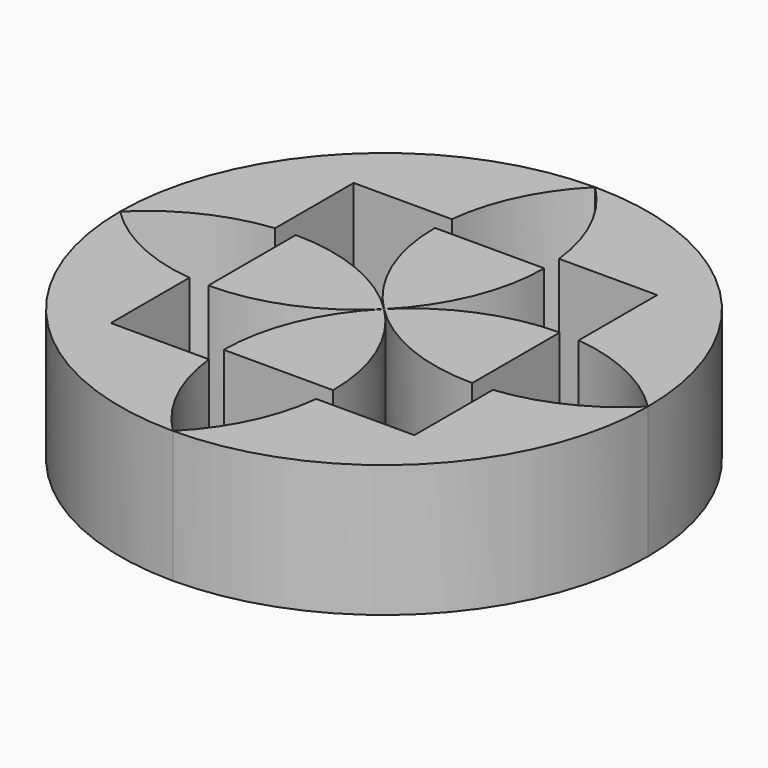
from build123d import *

# Parameters (mm, degrees)
F1_DEPTH = 25.4


with BuildPart() as f1:
    # F0 (on Top) → F1 (new body)
    with BuildSketch(Plane.XY):
        with BuildLine():
            ThreePointArc((-10.3183972205, 29.21), (-7.0098232747, 40.8894594902), (0, 50.8))
            ThreePointArc((0, 50.8), (-35.9210244843, 35.9210244843), (-50.8, 0))
            ThreePointArc((-50.8, 0), (-40.8894594902, 7.0098232747), (-29.21, 10.3183972205))
            Line((-29.21, 10.3183972205), (-29.21, 29.21))
            Line((-29.21, 29.21), (-10.3183972205, 29.21))
        make_face()
    extrude(amount=F1_DEPTH)


with BuildPart() as f1b:
    # F0 (on Top) → F1, piece 2 (new body)
    with BuildSketch(Plane.XY):
        with BuildLine():
            ThreePointArc((50.8, 0), (35.9210244843, 35.9210244843), (0, 50.8))
            ThreePointArc((0, 50.8), (7.0098232747, 40.8894594902), (10.3183972205, 29.21))
            Line((10.3183972205, 29.21), (29.21, 29.21))
            Line((29.21, 29.21), (29.21, 10.3183972205))
            ThreePointArc((29.21, 10.3183972205), (40.8894594902, 7.0098232747), (50.8, 0))
        make_face()
    extrude(amount=F1_DEPTH)


with BuildPart() as f1c:
    # F0 (on Top) → F1, piece 3 (new body)
    with BuildSketch(Plane.XY):
        with BuildLine():
            ThreePointArc((0, -50.8), (35.9210244843, -35.9210244843), (50.8, 0))
            ThreePointArc((50.8, 0), (40.8894594902, -7.0098232747), (29.21, -10.3183972205))
            Line((29.21, -10.3183972205), (29.21, -29.21))
            Line((29.21, -29.21), (10.3183972205, -29.21))
            ThreePointArc((10.3183972205, -29.21), (7.0098232747, -40.8894594902), (0, -50.8))
        make_face()
    extrude(amount=F1_DEPTH)


with BuildPart() as f1d:
    # F0 (on Top) → F1, piece 4 (new body)
    with BuildSketch(Plane.XY):
        with BuildLine():
            ThreePointArc((-29.21, -10.3183972205), (-40.8894594902, -7.0098232747), (-50.8, 0))
            ThreePointArc((-50.8, 0), (-35.9210244843, -35.9210244843), (0, -50.8))
            ThreePointArc((0, -50.8), (-7.0098232747, -40.8894594902), (-10.3183972205, -29.21))
            Line((-10.3183972205, -29.21), (-29.21, -29.21))
            Line((-29.21, -29.21), (-29.21, -10.3183972205))
        make_face()
    extrude(amount=F1_DEPTH)


with BuildPart() as f1e:
    # F0 (on Top) → F1, piece 5 (new body)
    with BuildSketch(Plane.XY):
        with BuildLine():
            Line((-25.4, 10.5210244843), (-25.4, -10.5210244843))
            ThreePointArc((-25.4, -10.5210244843), (-11.6536190708, -7.7866993139), (-2.22e-08, -2.22e-08))
            ThreePointArc((-2.22e-08, 2.22e-08), (-11.6536190708, 7.7866993139), (-25.4, 10.5210244843))
        make_face()
    extrude(amount=F1_DEPTH)


with BuildPart() as f1f:
    # F0 (on Top) → F1, piece 6 (new body)
    with BuildSketch(Plane.XY):
        with BuildLine():
            Line((10.5210244843, 25.4), (-10.5210244843, 25.4))
            ThreePointArc((-10.5210244843, 25.4), (-7.7866993139, 11.6536190708), (-2.22e-08, 2.22e-08))
            ThreePointArc((-2.22e-08, -2.22e-08), (7.7866993019, 11.6536190418), (10.5210244843, 25.4))
        make_face()
    extrude(amount=F1_DEPTH)


with BuildPart() as f1g:
    # F0 (on Top) → F1, piece 7 (new body)
    with BuildSketch(Plane.XY):
        with BuildLine():
            ThreePointArc((-2.22e-08, 2.22e-08), (11.6536190418, -7.7866993019), (25.4, -10.5210244843))
            Line((25.4, -10.5210244843), (25.4, 10.5210244843))
            ThreePointArc((25.4, 10.5210244843), (11.6536190418, 7.7866993019), (-2.22e-08, -2.22e-08))
        make_face()
    extrude(amount=F1_DEPTH)


with BuildPart() as f1h:
    # F0 (on Top) → F1, piece 8 (new body)
    with BuildSketch(Plane.XY):
        with BuildLine():
            ThreePointArc((10.5210244843, -25.4), (7.7866993019, -11.6536190418), (-2.22e-08, 2.22e-08))
            ThreePointArc((-2.22e-08, -2.22e-08), (-7.7866993139, -11.6536190708), (-10.5210244843, -25.4))
            Line((-10.5210244843, -25.4), (10.5210244843, -25.4))
        make_face()
    extrude(amount=F1_DEPTH)


solid = Compound([f1.part, f1b.part, f1c.part, f1d.part, f1e.part, f1f.part, f1g.part, f1h.part])
